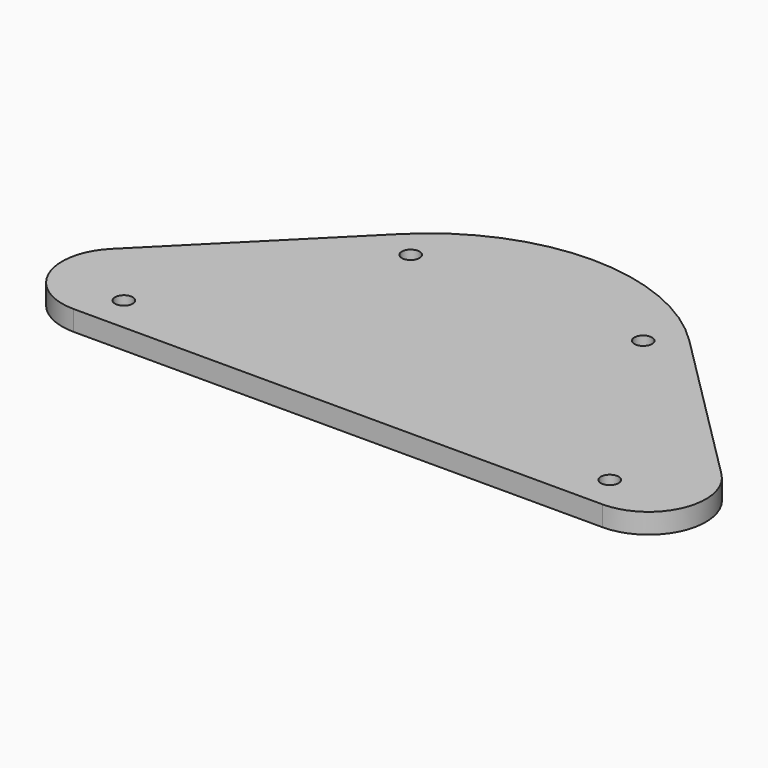
from build123d import *

# Parameters (mm, degrees)
F1_DEPTH = 5
F2_R     = 50.8
F3_R     = 14.224
F5_D     = 4.4


with BuildPart() as f1:
    # F0 (on Top) → F1 (new body)
    with BuildSketch(Plane.XY):
        Polygon((0, 100), (-100, 0), (100, 0), align=None)
    extrude(amount=F1_DEPTH)

    # F2
    f2_edges = [f1.edges().sort_by_distance(p)[0] for p in [
        (0, 100, 2.5),
    ]]
    fillet(f2_edges, radius=F2_R)

    # F3
    f3_edges = [f1.edges().sort_by_distance(p)[0] for p in [
        (-100, 0, 2.5),
        (100, 0, 2.5),
    ]]
    fillet(f3_edges, radius=F3_R)

    # F5 (through all)
    with Locations(Plane.XY.offset(5)):
        with Locations((-28.8579897851, 58.5696516454), (28.8579897851, 58.5696516454), (60.2944809943, 8.89), (-60.2944809943, 8.89)):
            Hole(F5_D / 2)


solid = f1.part
